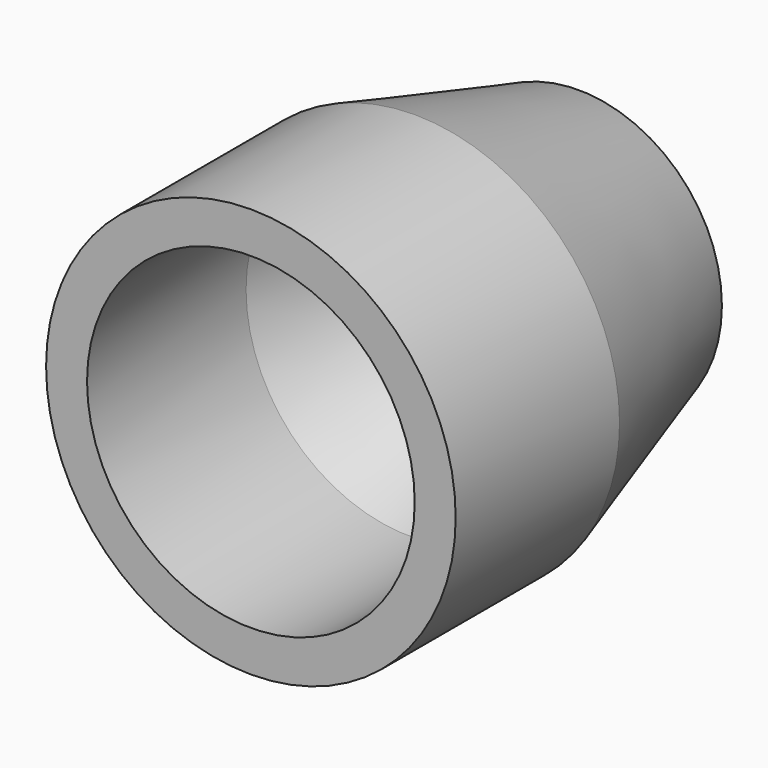
from build123d import *

# Parameters (mm, degrees)
F0_R       = 10
F1_DEPTH   = 10
F1_FACE1_R = 10
F2_R       = 7
F4_DEPTH   = 10
F5_T       = -2
F6_R       = 5
F7_DEPTH   = 2


with BuildPart() as f1:
    # F0 (on Front) → F1 (new body)
    with BuildSketch(Plane.XZ):
        Circle(F0_R)
    extrude(amount=F1_DEPTH)

    # F1_face1 (on face) → F3 section 0
    with BuildSketch(Plane.XZ.offset(10)):
        Circle(F1_FACE1_R)
    # F2 (on face) → F3 section 1
    with BuildSketch(Plane(origin=(0, 0, 0), x_dir=(-1, 0, 0), z_dir=(0, 1, 0))):
        Circle(F2_R)
    loft(mode=Mode.INTERSECT)

    # F4 (add): a face of the model
    f4_faces = [f1.faces().sort_by_distance(p)[0] for p in [
        (0, -10, 0),
    ]]
    extrude(f4_faces, amount=F4_DEPTH)

    # F5
    f5_openings = [f1.faces().sort_by_distance(p)[0] for p in [
        (0, -20, 0),
    ]]
    offset(amount=F5_T, openings=f5_openings)

    # F6 (on face) → F7 (cut)
    with BuildSketch(Plane(origin=(0, 0, 0), x_dir=(-1, 0, 0), z_dir=(0, 1, 0))):
        Circle(F6_R)
    extrude(amount=-F7_DEPTH, mode=Mode.SUBTRACT)


solid = f1.part
